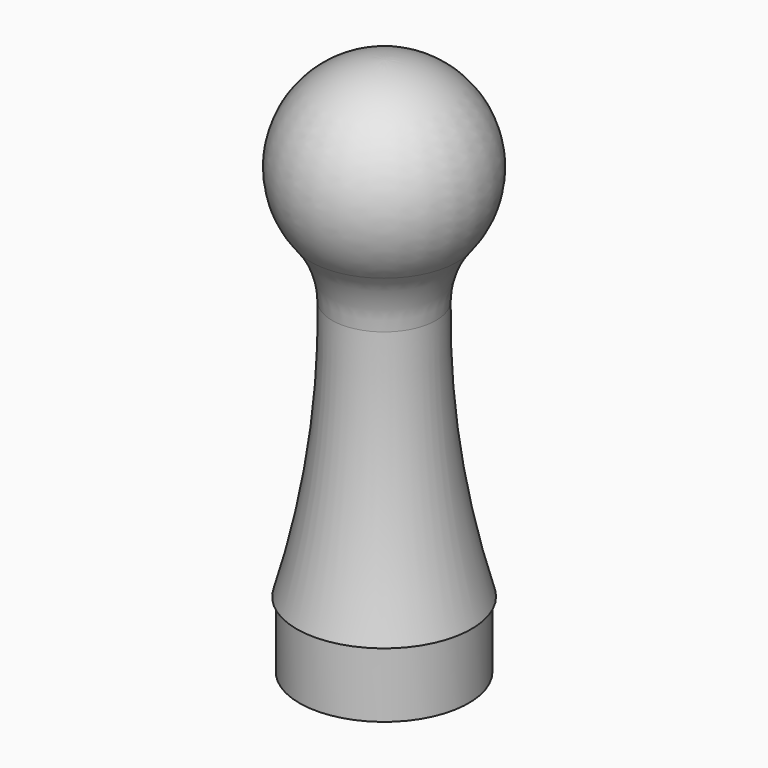
from build123d import *

# Parameters (mm, degrees)
F2_R = 10


with BuildPart() as f1:
    # F0 (on Front) → F1 (revolve)
    with BuildSketch(Plane.XZ):
        with BuildLine():
            ThreePointArc((-5.661515, 31.756988), (-6.078023, 15.722812), (-9.25, 0))
            Line((-9.25, 0), (-8.95, 0))
            Line((-8.95, 0), (-8.95, -7))
            Line((-8.95, -7), (0, -7))
            Line((0, -7), (0, 0))
            Line((0, 0), (0, 50))
            ThreePointArc((0, 50), (-9.550658, 42.96394), (-5.661515, 31.756988))
        make_face()
    revolve(axis=Axis((0, 0, 54.219286), (0, 0, 1)))

    # F2
    f2_edges = [f1.edges().sort_by_distance(p)[0] for p in [
        (5.661515, 0, 31.756988),
    ]]
    fillet(f2_edges, radius=F2_R)


solid = f1.part
